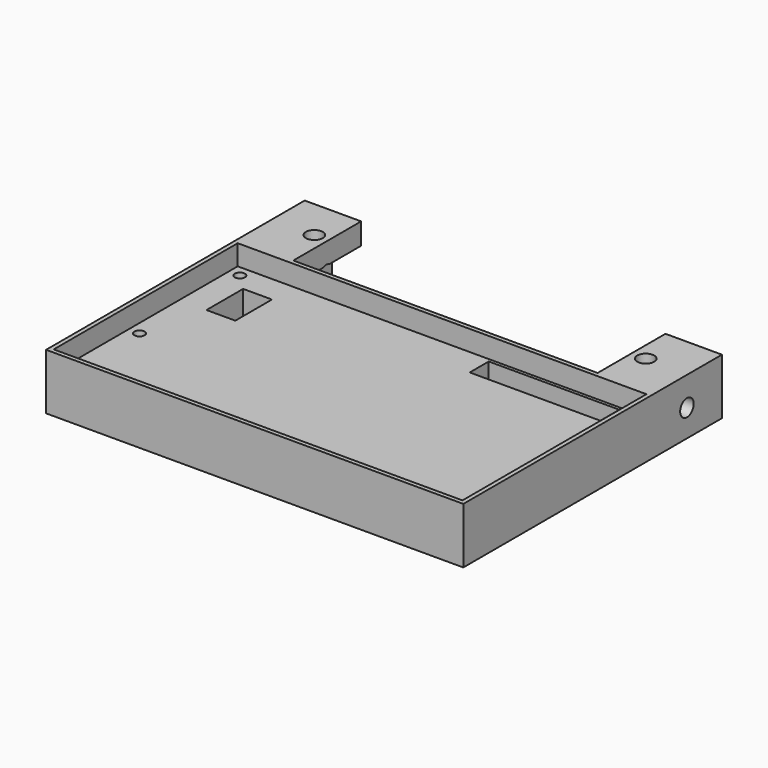
from build123d import *

# Parameters (mm, degrees)
F0_W     = 123
F0_H     = 70.3
F0_W_2   = 120.5
F0_H_2   = 67.8
F1_DEPTH = 16.5
F0_R     = 1.5
F2_DEPTH = 10.5
F3_W     = 38.5
F3_H     = 7
F4_DEPTH = 9.8
F3_W_2   = 8.5
F3_H_2   = 13.5
F5_DEPTH = 25
F6_W     = 8.3734206855
F6_H     = 6.3322774097
F6_W_2   = 8.5727833211
F7_DEPTH = 25
F9_D     = 5
F11_D    = 5
F13_D    = 5


with BuildPart() as f1:
    # F0 (on Top) → F1 (new body)
    with BuildSketch(Plane.XY):
        Rectangle(F0_W, F0_H)
        Rectangle(F0_W_2, F0_H_2, mode=Mode.SUBTRACT)
    extrude(amount=F1_DEPTH)

    # F0 (on Top) → F2 (join)
    with BuildSketch(Plane.XY):
        Rectangle(F0_W_2, F0_H_2)
        with Locations((-56.99, -6.36)):
            Circle(F0_R, mode=Mode.SUBTRACT)
        with Locations((56.99, -30.64)):
            Circle(F0_R, mode=Mode.SUBTRACT)
        with Locations((-56.99, 30.64)):
            Circle(F0_R, mode=Mode.SUBTRACT)
        with Locations((57.01009, 30.64)):
            Circle(F0_R, mode=Mode.SUBTRACT)
    extrude(amount=F2_DEPTH)

    # F3 (on face) → F4 (cut)
    with BuildSketch(Plane.XY.offset(10.5)):
        with Locations((33.76009, 29.45)):
            Rectangle(F3_W, F3_H)
    extrude(amount=-F4_DEPTH, mode=Mode.SUBTRACT)

    # F3 (on face) → F5 (cut)
    with BuildSketch(Plane.XY.offset(10.5)):
        with Locations((-48, 19.15)):
            Rectangle(F3_W_2, F3_H_2)
    extrude(amount=-F5_DEPTH, mode=Mode.SUBTRACT)

    # F6 (on face) → F7 (join)
    with BuildSketch(Plane(origin=(0, 35.15, 0), x_dir=(-1, 0, 0), z_dir=(0, 1, 0))):
        with Locations((-49.0443054587, 13.3338612951)):
            Rectangle(F6_W, F6_H)
        Polygon((-53.2310158014, 16.5), (-61.5, 16.5), (-61.5, 0), (-53.2310158014, 0), (-53.2310158014, 10.1677225903), align=None)
        with Locations((49.1439905018, 13.3338612951)):
            Rectangle(F6_W_2, F6_H)
        Polygon((53.4303821623, 10.1677225903), (53.4303821623, 0), (61.5, 0), (61.5, 16.5), (53.4303821623, 16.5), align=None)
    extrude(amount=F7_DEPTH)

    # F9 (through all)
    with Locations(Plane(origin=(0, 0, 10.1677225903), x_dir=(1, 0, 0), z_dir=(0, 0, -1))):
        with Locations((-49.0169860423, -48.110447824)):
            Hole(F9_D / 2)

    # F11 (through all)
    with Locations(Plane(origin=(0, 0, 10.1677225903), x_dir=(1, 0, 0), z_dir=(0, 0, -1))):
        with Locations((49.044303596, -47.65)):
            Hole(F11_D / 2)

    # F13 (through all)
    with Locations(Plane.YZ.offset(61.5)):
        with Locations((47.2500026226, 7.9746842384)):
            Hole(F13_D / 2)


solid = f1.part
